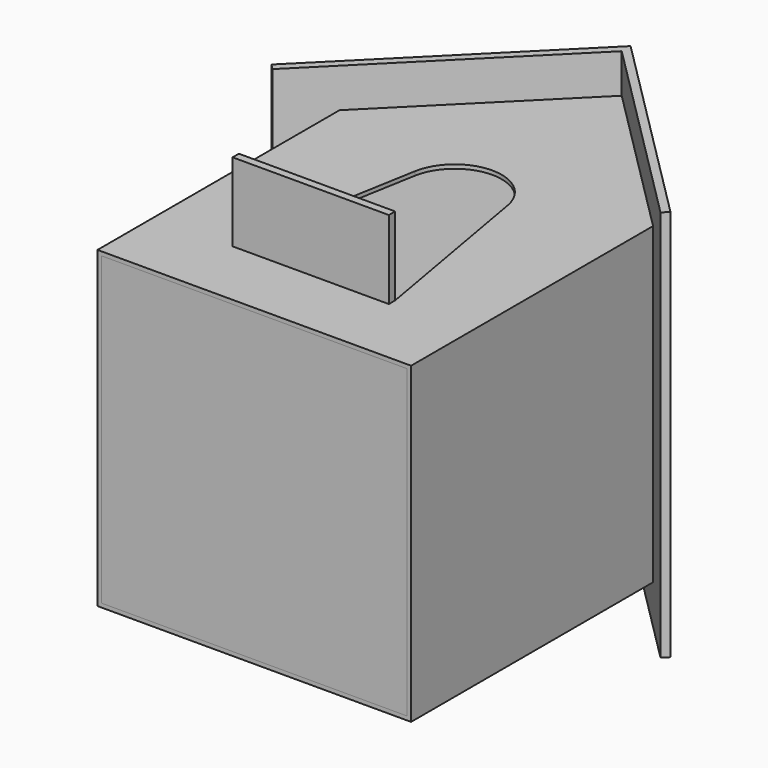
from build123d import *

# Parameters (mm, degrees)
F1_DEPTH       = 200
F2_T           = -2.5
F4_DEPTH       = 25
F4_DEPTH_BACK  = 225
F5_W           = 195
F5_H           = 195
F6_DEPTH       = 5
F8_DEPTH       = 25
F9_W           = 99.64367
F9_H           = 5
F10_DEPTH      = 50
F10_DEPTH_BACK = 200


with BuildPart() as f1:
    # F0 (on Top) → F1 (new body)
    with BuildSketch(Plane.XY):
        Polygon((0, 200), (0, 0), (200, 0), (200, 200), (100, 300), align=None)
    extrude(amount=F1_DEPTH)

    # F2
    f2_openings = [f1.faces().sort_by_distance(p)[0] for p in [
        (100, 0, 100),
    ]]
    offset(amount=F2_T, openings=f2_openings)

    # F3 (on face) → F4 (join, two sides)
    with BuildSketch(Plane.XY.offset(200)) as f4_sk:
        Polygon((227.279221, 172.720779), (100, 300), (-27.279221, 172.720779), (-23.743687, 169.185245), (100, 292.928932), (223.743687, 169.185245), align=None)
    extrude(amount=F4_DEPTH)
    extrude(f4_sk.sketch, amount=-F4_DEPTH_BACK)

    # F7 (on face) → F8 (cut)
    with BuildSketch(Plane.XY.offset(200)):
        with BuildLine():
            Line((149.821835, 50), (129.544233, 165))
            ThreePointArc((129.544233, 165), (100, 189.790555), (70.455767, 165))
            Line((70.455767, 165), (50.178165, 50))
            Line((50.178165, 50), (149.821835, 50))
        make_face()
    extrude(amount=-F8_DEPTH, mode=Mode.SUBTRACT)

    # F9 (on face) → F10 (join, two sides)
    with BuildSketch(Plane.XY.offset(200)) as f10_sk:
        with Locations((100, 47.5)):
            Rectangle(F9_W, F9_H)
    extrude(amount=F10_DEPTH)
    extrude(f10_sk.sketch, amount=-F10_DEPTH_BACK)


with BuildPart() as f6:
    # F5 (on face) → F6 (new body)
    with BuildSketch(Plane.XZ):
        with Locations((100, 100)):
            Rectangle(F5_W, F5_H)
    extrude(amount=-F6_DEPTH)


solid = Compound([f1.part, f6.part])
